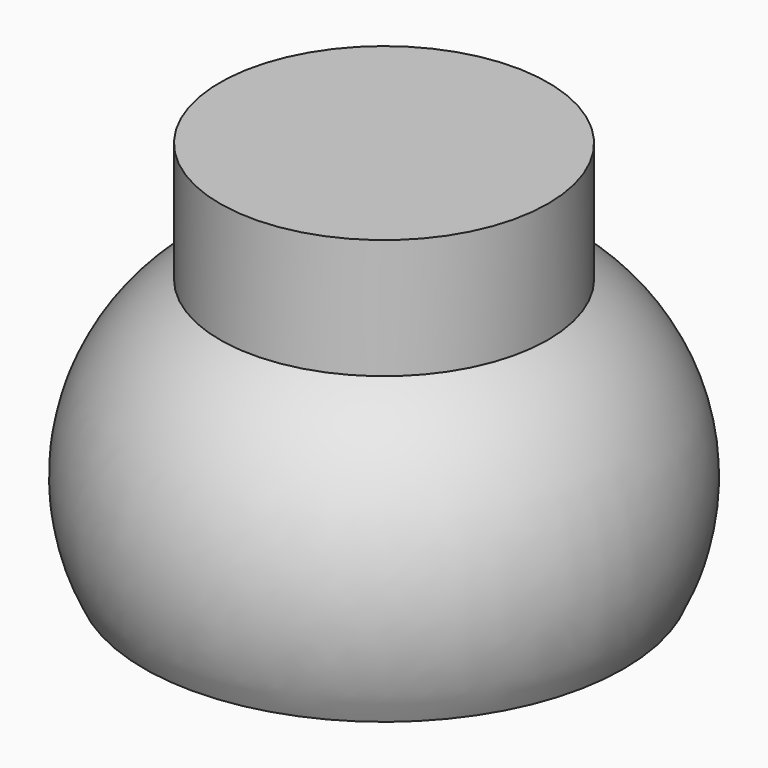
from build123d import *

# Parameters (mm, degrees)
F1_FACE_R = 34.774121
F2_DEPTH  = 25.4


with BuildPart() as f1:
    # F0 (on Right) → F1 (revolve)
    with BuildSketch(Plane.YZ):
        with BuildLine():
            Line((0, 28.483452), (0, 0))
            Line((0, 0), (0, -27.66077))
            Line((0, -27.66077), (50.823722, -27.66077))
            ThreePointArc((50.823722, -27.66077), (53.793267, 3.554226), (34.774121, 28.483452))
            Line((34.774121, 28.483452), (0, 28.483452))
        make_face()
    revolve(axis=Axis((0, 0, 14.241726), (0, 0, 1)))

    # F1_face (on face) → F2 (join)
    with BuildSketch(Plane.XY.offset(28.483452)):
        Circle(F1_FACE_R)
    extrude(amount=F2_DEPTH)


solid = f1.part
